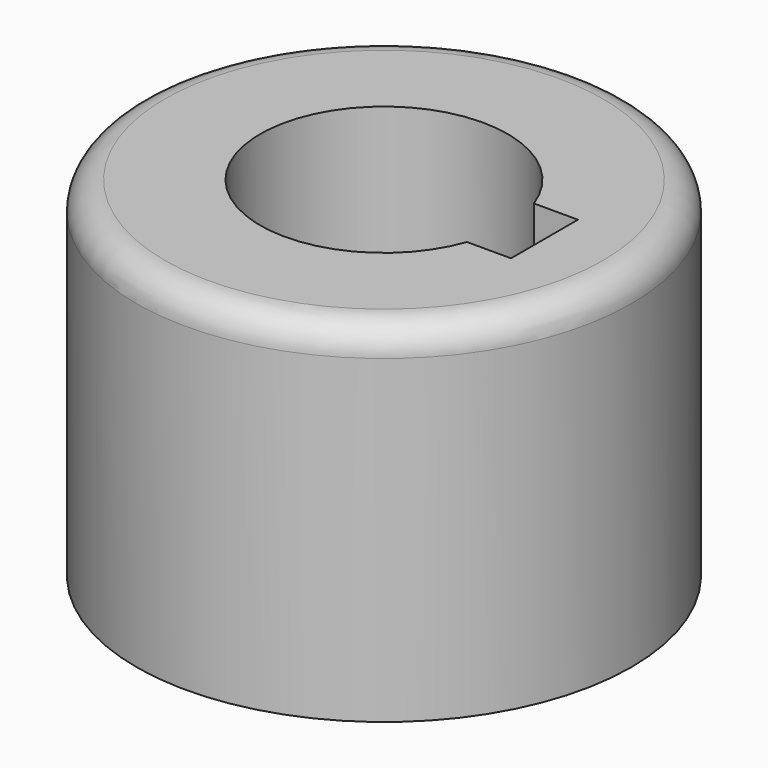
from build123d import *

# Parameters (mm, degrees)
F0_R     = 28.575
F1_DEPTH = 40.2336
F2_R     = 3.302
F4_DEPTH = 40.2336


with BuildPart() as f1:
    # F0 (on Top) → F1 (new body)
    with BuildSketch(Plane.XY):
        Circle(F0_R)
    extrude(amount=F1_DEPTH)

    # F2
    f2_edges = [f1.edges().sort_by_distance(p)[0] for p in [
        (-28.575, 0, 40.2336),
    ]]
    fillet(f2_edges, radius=F2_R)

    # F3 (on face) → F4 (cut, through all)
    with BuildSketch(Plane.XY.offset(40.2336)):
        with BuildLine():
            Line((18.5293, 4.826), (13.447765, 4.826))
            ThreePointArc((13.447765, 4.826), (-14.2875, 0), (13.447765, -4.826))
            Line((13.447765, -4.826), (18.5293, -4.826))
            Line((18.5293, -4.826), (18.5293, 4.826))
        make_face()
    extrude(amount=-F4_DEPTH, mode=Mode.SUBTRACT)


solid = f1.part
